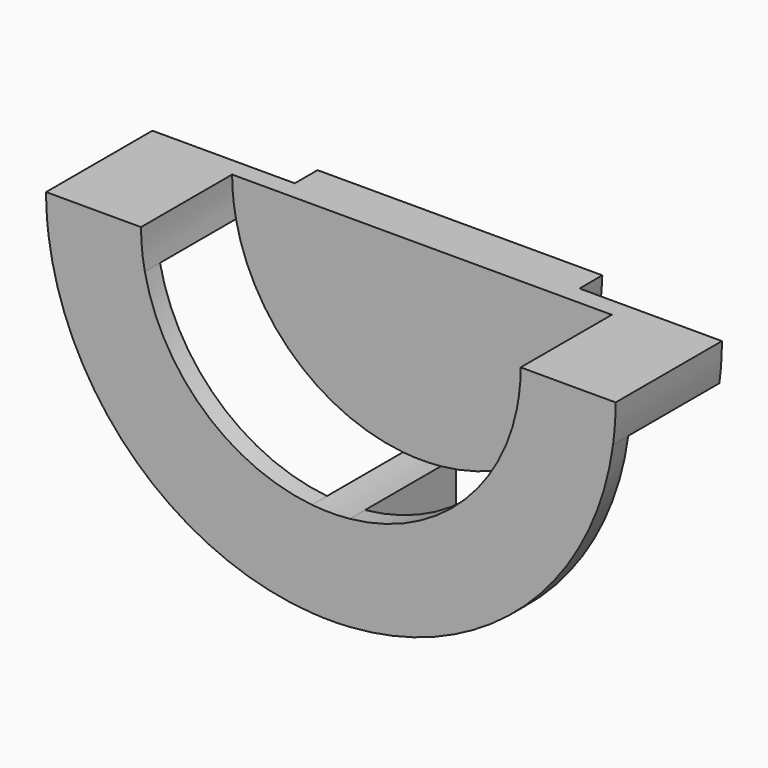
from build123d import *

# Parameters (mm, degrees)
F1_DEPTH = 3
F3_DEPTH = 2
F4_DEPTH = 12
F5_START = 12
F5_DEPTH = 2


with BuildPart() as f1:
    # F0 (on Front) → F1 (new body)
    with BuildSketch(Plane.XZ):
        with BuildLine():
            Line((15, 0), (-15, 0))
            ThreePointArc((-15, 0), (0, -15), (15, 0))
        make_face()
    extrude(amount=-F1_DEPTH)

    # F2 (on face) → F3 (join)
    with BuildSketch(Plane.XZ):
        with BuildLine():
            ThreePointArc((-19.5959179423, -4), (-13.408818757, -14.8392580523), (-2, -19.8997487421))
            ThreePointArc((-2, -19.8997487421), (0, -20), (2, -19.8997487421))
            ThreePointArc((2, -19.8997487421), (13.408818757, -14.8392580523), (19.5959179423, -4))
            Line((19.5959179423, -4), (14.4568322948, -4))
            ThreePointArc((14.4568322948, -4), (0, -15), (-14.4568322948, -4))
            Line((-14.4568322948, -4), (-19.5959179423, -4))
        make_face()
        with BuildLine():
            Line((14.4568322948, -4), (-14.4568322948, -4))
            ThreePointArc((-14.4568322948, -4), (0, -15), (14.4568322948, -4))
        make_face()
        with BuildLine():
            ThreePointArc((-20, 0), (-19.8987230601, -2.0101792401), (-19.5959179423, -4))
            Line((-19.5959179423, -4), (-14.4568322948, -4))
            ThreePointArc((-14.4568322948, -4), (-14.8635877974, -2.0183552187), (-15, 0))
            Line((-15, 0), (-20, 0))
        make_face()
        with BuildLine():
            Line((14.4568322948, -4), (19.5959179423, -4))
            ThreePointArc((19.5959179423, -4), (19.8987230601, -2.0101792401), (20, 0))
            Line((20, 0), (15, 0))
            ThreePointArc((15, 0), (14.8635877974, -2.0183552187), (14.4568322948, -4))
        make_face()
        with BuildLine():
            ThreePointArc((-15, 0), (-14.8635877974, -2.0183552187), (-14.4568322948, -4))
            Line((-14.4568322948, -4), (14.4568322948, -4))
            ThreePointArc((14.4568322948, -4), (14.8635877974, -2.0183552187), (15, 0))
            Line((15, 0), (-15, 0))
        make_face()
        with BuildLine():
            Line((-29.7321374946, -4), (-19.5959179423, -4))
            ThreePointArc((-19.5959179423, -4), (-19.8987230601, -2.0101792401), (-20, 0))
            Line((-20, 0), (-30, 0))
            ThreePointArc((-30, 0), (-29.9329594664, -2.0044793789), (-29.7321374946, -4))
        make_face()
        with BuildLine():
            ThreePointArc((20, 0), (19.8987230601, -2.0101792401), (19.5959179423, -4))
            Line((19.5959179423, -4), (29.7321374946, -4))
            ThreePointArc((29.7321374946, -4), (29.9329594664, -2.0044793789), (30, 0))
            Line((30, 0), (20, 0))
        make_face()
        with BuildLine():
            ThreePointArc((2, -19.8997487421), (0, -20), (-2, -19.8997487421))
            Line((-2, -19.8997487421), (-2, -29.9332590942))
            ThreePointArc((-2, -29.9332590942), (0, -30), (2, -29.9332590942))
            Line((2, -29.9332590942), (2, -19.8997487421))
        make_face()
    extrude(amount=F3_DEPTH)

    # F2 (on face) → F4 (join)
    with BuildSketch(Plane.XZ):
        with BuildLine():
            Line((-29.7321374946, -4), (-19.5959179423, -4))
            ThreePointArc((-19.5959179423, -4), (-19.8987230601, -2.0101792401), (-20, 0))
            Line((-20, 0), (-30, 0))
            ThreePointArc((-30, 0), (-29.9329594664, -2.0044793789), (-29.7321374946, -4))
        make_face()
        with BuildLine():
            ThreePointArc((20, 0), (19.8987230601, -2.0101792401), (19.5959179423, -4))
            Line((19.5959179423, -4), (29.7321374946, -4))
            ThreePointArc((29.7321374946, -4), (29.9329594664, -2.0044793789), (30, 0))
            Line((30, 0), (20, 0))
        make_face()
        with BuildLine():
            ThreePointArc((2, -19.8997487421), (0, -20), (-2, -19.8997487421))
            Line((-2, -19.8997487421), (-2, -29.9332590942))
            ThreePointArc((-2, -29.9332590942), (0, -30), (2, -29.9332590942))
            Line((2, -29.9332590942), (2, -19.8997487421))
        make_face()
    extrude(amount=F4_DEPTH)

    # F2 (on face) → F5 (join)
    with BuildSketch(Plane.XZ.offset(F5_START)):
        with BuildLine():
            Line((-2, -29.9332590942), (-2, -19.8997487421))
            ThreePointArc((-2, -19.8997487421), (-13.408818757, -14.8392580523), (-19.5959179423, -4))
            Line((-19.5959179423, -4), (-29.7321374946, -4))
            ThreePointArc((-29.7321374946, -4), (-20.4906227164, -21.9119688913), (-2, -29.9332590942))
        make_face()
        with BuildLine():
            ThreePointArc((19.5959179423, -4), (13.408818757, -14.8392580523), (2, -19.8997487421))
            Line((2, -19.8997487421), (2, -29.9332590942))
            ThreePointArc((2, -29.9332590942), (20.4906227164, -21.9119688913), (29.7321374946, -4))
            Line((29.7321374946, -4), (19.5959179423, -4))
        make_face()
        with BuildLine():
            Line((-29.7321374946, -4), (-19.5959179423, -4))
            ThreePointArc((-19.5959179423, -4), (-19.8987230601, -2.0101792401), (-20, 0))
            Line((-20, 0), (-30, 0))
            ThreePointArc((-30, 0), (-29.9329594664, -2.0044793789), (-29.7321374946, -4))
        make_face()
        with BuildLine():
            ThreePointArc((2, -19.8997487421), (0, -20), (-2, -19.8997487421))
            Line((-2, -19.8997487421), (-2, -29.9332590942))
            ThreePointArc((-2, -29.9332590942), (0, -30), (2, -29.9332590942))
            Line((2, -29.9332590942), (2, -19.8997487421))
        make_face()
        with BuildLine():
            ThreePointArc((20, 0), (19.8987230601, -2.0101792401), (19.5959179423, -4))
            Line((19.5959179423, -4), (29.7321374946, -4))
            ThreePointArc((29.7321374946, -4), (29.9329594664, -2.0044793789), (30, 0))
            Line((30, 0), (20, 0))
        make_face()
    extrude(amount=F5_DEPTH)


solid = f1.part
